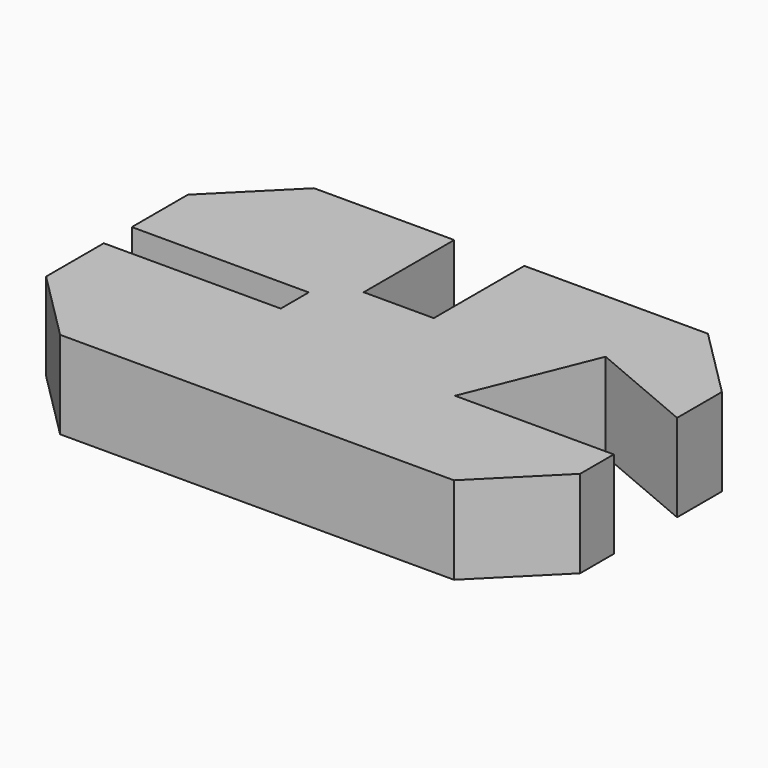
from build123d import *

# Parameters (mm, degrees)
F1_DEPTH = 25


with BuildPart() as f1:
    # F0 (on Top) → F1 (new body)
    with BuildSketch(Plane.XY):
        Polygon((-57.280827, 2.138009), (-37.269705, -17.873113), (75.130295, -17.873113), (95.141417, 2.138009), (95.141417, 14.138009), (49.841417, 14.138009), (64.26377, 49.834587), (95.141417, 36.727804), (95.141417, 52.727804), (75.130295, 72.738926), (22.730295, 72.738926), (22.730295, 40.438926), (2.730295, 40.438926), (2.730295, 72.738926), (-37.269705, 72.738926), (-57.280827, 52.727804), (-57.280827, 32.727804), (-6.780827, 32.727804), (-6.780827, 22.727804), (-57.280827, 22.727804), align=None)
    extrude(amount=F1_DEPTH)


solid = f1.part
